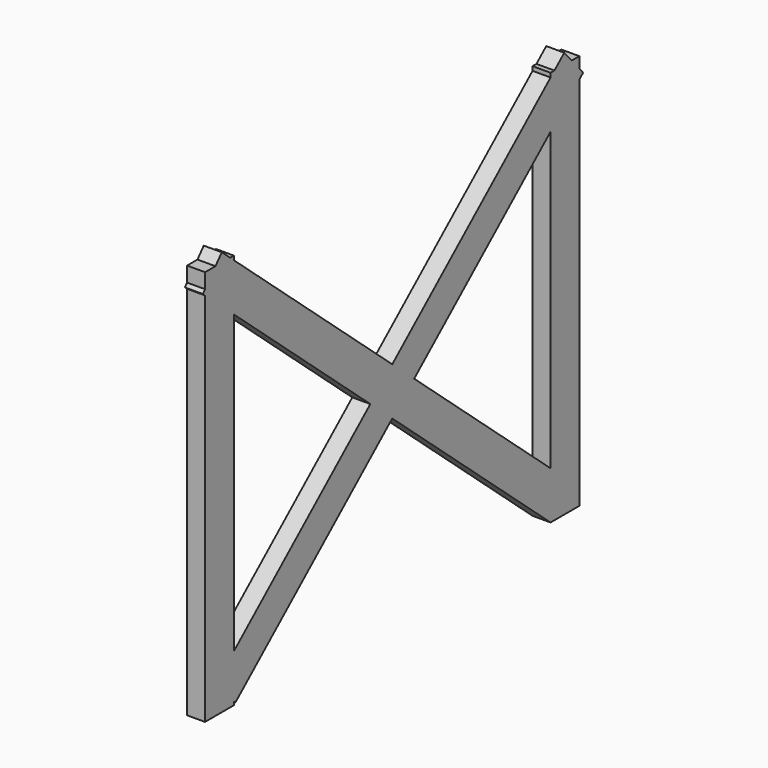
from build123d import *

# Parameters (mm, degrees)
BOX204_W          = 0.5
BOX204_H          = 1
BOX204_DEPTH      = 11
BOX205_W          = 0.5
BOX205_H          = 1
BOX205_DEPTH      = 16
BOX205_ROLL_ANGLE = 49
BOX206_W          = 0.5
BOX206_H          = 1
BOX206_DEPTH      = 16
BOX206_ROLL_ANGLE = -49
BOX203_W          = 0.5
BOX203_H          = 1
BOX203_DEPTH      = 11


with BuildPart() as cubo204:
    # Box204 → Box204 (new body)
    with BuildSketch(Plane(origin=(0, 12, 0.5), x_dir=(1, 0, 0), z_dir=(0, 0, 1))):
        with Locations((0.25, 0.5)):
            Rectangle(BOX204_W, BOX204_H)
    extrude(amount=BOX204_DEPTH)


with BuildPart() as cubo205:
    # Box205 → Box205 (new body)
    with BuildSketch(Plane.XY):
        with Locations((0.25, 0.5)):
            Rectangle(BOX205_W, BOX205_H)
    extrude(amount=BOX205_DEPTH)


with BuildPart() as cubo205_1:
    # Box205 roll: moved
    add(cubo205.part.rotate(Axis((0, 0, 0), (1, 0, 0)), BOX205_ROLL_ANGLE))


with BuildPart() as cubo205_2:
    # Box205 placement: moved
    add(cubo205_1.part.moved(Location((0, 12, 0.5))))


with BuildPart() as cubo206:
    # Box206 → Box206 (new body)
    with BuildSketch(Plane.XY):
        with Locations((0.25, 0.5)):
            Rectangle(BOX206_W, BOX206_H)
    extrude(amount=BOX206_DEPTH)


with BuildPart() as cubo206_1:
    # Box206 roll: moved
    add(cubo206.part.rotate(Axis((0, 0, 0), (1, 0, 0)), BOX206_ROLL_ANGLE))


with BuildPart() as cubo206_2:
    # Box206 placement: moved
    add(cubo206_1.part.moved(Location((0, 0.4, 1.3))))


with BuildPart() as fusion013:
    # Box203 → Box203 (new body)
    with BuildSketch(Plane.XY.offset(0.5)):
        with Locations((0.25, 0.5)):
            Rectangle(BOX203_W, BOX203_H)
    extrude(amount=BOX203_DEPTH)

    # Fusion013: union Cubo204, Cubo205, Cubo206
    add(cubo204.part)
    add(cubo205_2.part)
    add(cubo206_2.part)


with BuildPart() as fusion013_1:
    # Fusion013 placement: moved
    add(fusion013.part.moved(Location((-219.5, 58, 0))))


solid = fusion013_1.part
